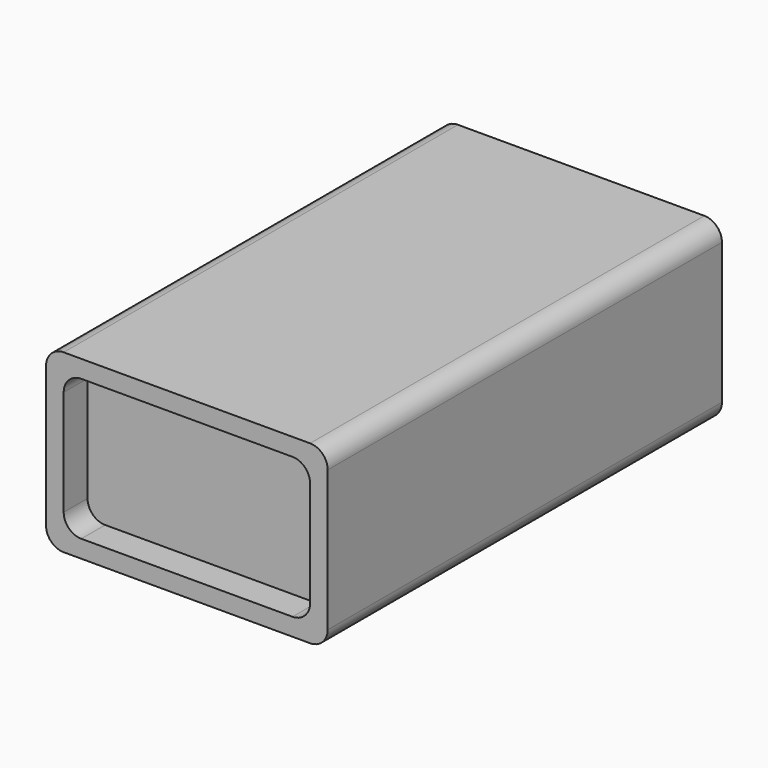
from build123d import *

# Parameters (mm, degrees)
F0_W     = 25.4
F0_H     = 15.875
F1_DEPTH = 22.225
F2_T     = -1.5875
F3_W     = 23.8125
F3_H     = 14.2875
F4_DEPTH = 19.5326
F5_R     = 1.5875
F6_R     = 1.5875


with BuildPart() as f1:
    # F0 (on Front) → F1 (new body, symmetric)
    with BuildSketch(Plane.XZ):
        Rectangle(F0_W, F0_H)
    extrude(amount=F1_DEPTH, both=True)

    # F2
    f2_openings = [f1.faces().sort_by_distance(p)[0] for p in [
        (0, -22.225, 0),
        (0, 22.225, 0),
    ]]
    offset(amount=F2_T, openings=f2_openings)

    # F3 (on Front) → F4 (join, symmetric)
    with BuildSketch(Plane.XZ):
        Rectangle(F3_W, F3_H)
    extrude(amount=F4_DEPTH, both=True)

    # F5
    f5_edges = [f1.edges().sort_by_distance(p)[0] for p in [
        (-11.1125, -20.8788, 6.35),
        (11.1125, -20.8788, 6.35),
        (11.1125, -20.8788, -6.35),
        (-11.1125, -20.8788, -6.35),
        (-11.1125, 20.8788, -6.35),
        (11.1125, 20.8788, -6.35),
        (-11.1125, 20.8788, 6.35),
        (11.1125, 20.8788, 6.35),
    ]]
    fillet(f5_edges, radius=F5_R)

    # F6
    f6_edges = [f1.edges().sort_by_distance(p)[0] for p in [
        (-12.7, 0, -7.9375),
        (-12.7, 0, 7.9375),
        (12.7, 0, 7.9375),
        (12.7, 0, -7.9375),
    ]]
    fillet(f6_edges, radius=F6_R)


solid = f1.part
